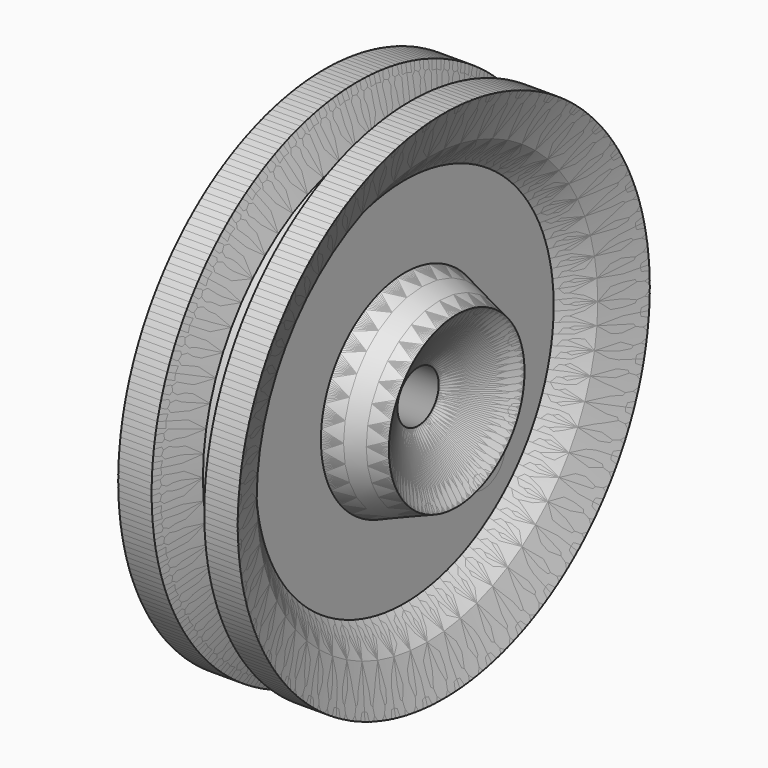
from build123d import *

# Parameters (mm, degrees)
F4_D     = 25.4
F5_COUNT = 8


with BuildPart() as f1:
    # F0 (on Top) → F1 (revolve)
    with BuildSketch(Plane.XY):
        Polygon((0, 96.198231), (0, 11.689024), (15.447472, 11.689024), (32.931793, 38.435332), (9.381074, 47.448847), (9.381074, 84.485799), (19.598166, 96.6186), (27.077157, 116.754457), (11.946214, 116.754457), (5.127451, 96.198231), align=None)
    revolve(axis=Axis((20.685878, 0, 0), (1, 0, 0)))

    # F2: F1 across plane


with BuildPart() as f1_1:
    add(f1.part)
    add(f1.part.mirror(Plane.YZ))

    # F4 (through all)
    with Locations(Plane.YZ.offset(9.381074)):
        with Locations((62.703714, 0)):
            Hole(F4_D / 2)


with BuildPart() as f5_1:
    # F5: instance of F1
    add(f1_1.part.rotate(Axis((20.685878, 0, 0), (1, 0, 0)), 1 * 360 / F5_COUNT))


with BuildPart() as f5_2:
    # F5: instance of F1
    add(f1_1.part.rotate(Axis((20.685878, 0, 0), (1, 0, 0)), 2 * 360 / F5_COUNT))


with BuildPart() as f5_3:
    # F5: instance of F1
    add(f1_1.part.rotate(Axis((20.685878, 0, 0), (1, 0, 0)), 3 * 360 / F5_COUNT))


with BuildPart() as f5_4:
    # F5: instance of F1
    add(f1_1.part.rotate(Axis((20.685878, 0, 0), (1, 0, 0)), 4 * 360 / F5_COUNT))


with BuildPart() as f5_5:
    # F5: instance of F1
    add(f1_1.part.rotate(Axis((20.685878, 0, 0), (1, 0, 0)), 5 * 360 / F5_COUNT))


with BuildPart() as f5_6:
    # F5: instance of F1
    add(f1_1.part.rotate(Axis((20.685878, 0, 0), (1, 0, 0)), 6 * 360 / F5_COUNT))


with BuildPart() as f5_7:
    # F5: instance of F1
    add(f1_1.part.rotate(Axis((20.685878, 0, 0), (1, 0, 0)), 7 * 360 / F5_COUNT))


solid = Compound([f1_1.part, f5_1.part, f5_2.part, f5_3.part, f5_4.part, f5_5.part, f5_6.part, f5_7.part])
